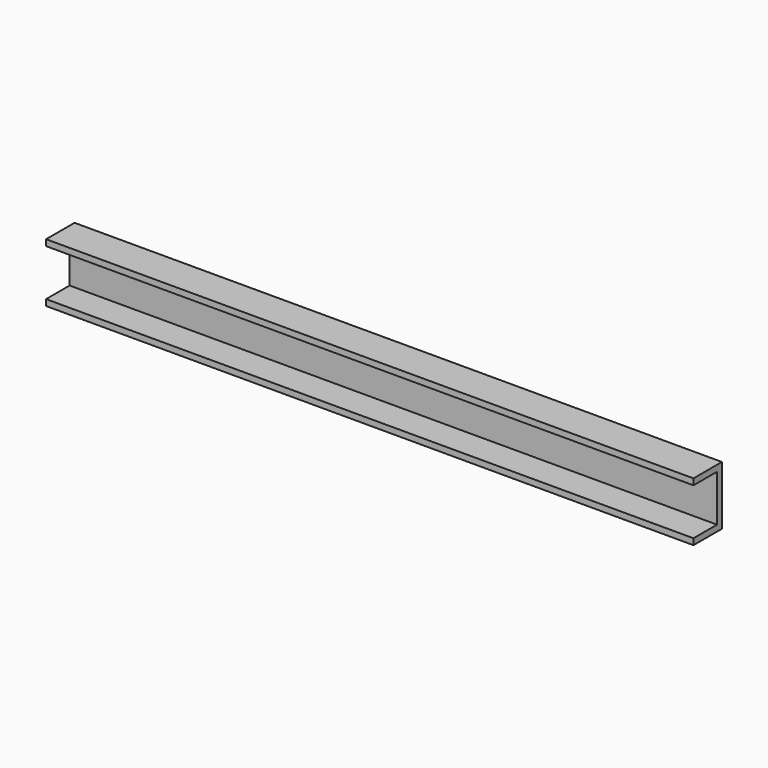
from build123d import *

# Parameters (mm, degrees)
F0_W     = 838.2
F0_H     = 76.2
F1_DEPTH = 7.9375
F2_W     = 838.2
F2_H     = 7.9375
F3_DEPTH = 38.1


with BuildPart() as f1:
    # F0 (on Front) → F1 (new body)
    with BuildSketch(Plane.XZ):
        with Locations((419.1, 38.1)):
            Rectangle(F0_W, F0_H)
    extrude(amount=-F1_DEPTH)

    # F2 (on Front) → F3 (join)
    with BuildSketch(Plane.XZ):
        with Locations((419.1, 72.23125)):
            Rectangle(F2_W, F2_H)
        with Locations((419.1, 3.96875)):
            Rectangle(F2_W, F2_H)
    extrude(amount=F3_DEPTH)


solid = f1.part
